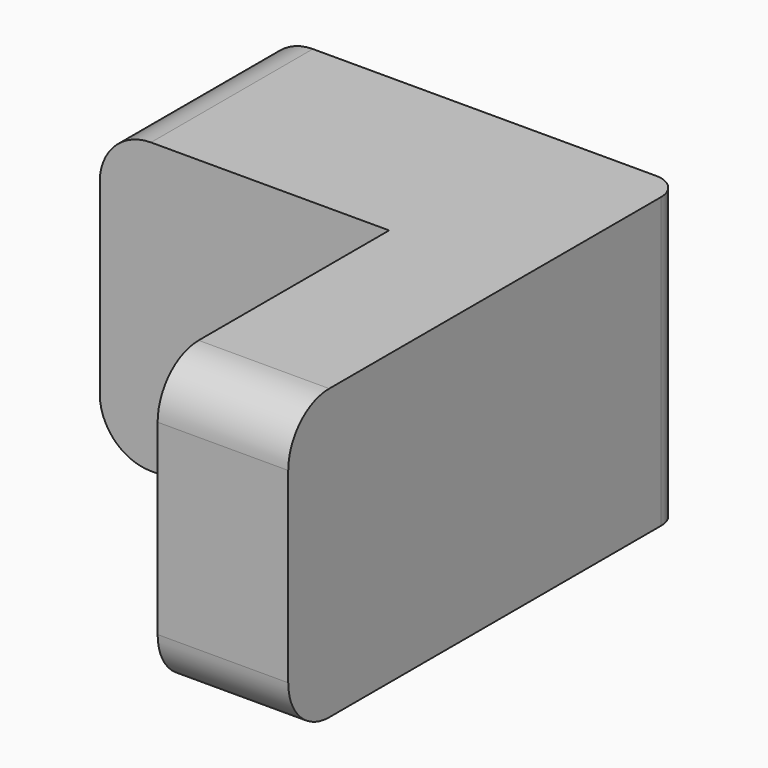
from build123d import *

# Parameters (mm, degrees)
F0_W     = 16.4
F0_H     = 19.2
F1_DEPTH = 11.3
F2_W     = 11.3
F2_H     = 11.3
F3_DEPTH = 25
F4_R     = 2
F5_R     = 1


with BuildPart() as f1:
    # F0 (on Top) → F1 (new body)
    with BuildSketch(Plane.XY):
        with Locations((8.2, 9.6)):
            Rectangle(F0_W, F0_H)
    extrude(amount=F1_DEPTH)

    # F2 (on face) → F3 (cut)
    with BuildSketch(Plane.XY.offset(11.3)):
        with Locations((5.65, 5.65)):
            Rectangle(F2_W, F2_H)
    extrude(amount=-F3_DEPTH, mode=Mode.SUBTRACT)

    # F4
    f4_edges = [f1.edges().sort_by_distance(p)[0] for p in [
        (13.85, 0, 0),
        (0, 15.25, 0),
        (13.85, 0, 11.3),
        (0, 15.25, 11.3),
    ]]
    fillet(f4_edges, radius=F4_R)

    # F5
    f5_edges = [f1.edges().sort_by_distance(p)[0] for p in [
        (16.4, 19.2, 5.65),
    ]]
    fillet(f5_edges, radius=F5_R)


solid = f1.part
